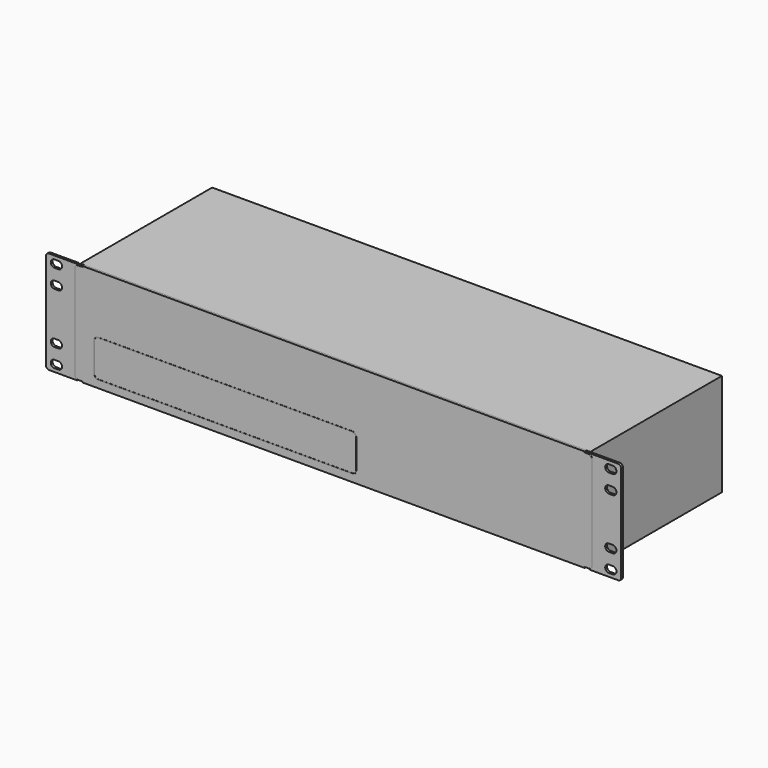
from build123d import *

# Parameters (mm, degrees)
F0_W      = 1.778
F0_H      = 86.614
F1_DEPTH  = 2
F2_R      = 3
F0_H_2    = 0.762
F3_DEPTH  = 1.9
F4_R      = 2.5
F4_2_R    = 2.5
F6_DEPTH  = 1.901
F7_DEPTH  = 1.901
F8_W      = 438.15
F8_H      = 88.1
F9_DEPTH  = 141.443
F10_R     = 1.75
F11_DEPTH = 1
F12_R     = 4.064
F13_DEPTH = 1.2
F14_DEPTH = 4
F15_SIZE  = 0.2
F16_R     = 4.826
F16_R_2   = 4.576
F16_R_3   = 1.651
F17_DEPTH = 10
F19_DEPTH = 15
F18_W     = 15.494
F18_H     = 13.414
F20_DEPTH = 0.2
F21_R     = 1.25
F22_DEPTH = 4.6
F24_DEPTH = 0.1


with BuildPart() as f1:
    # F0 (on Front) → F1 (new body)
    with BuildSketch(Plane.XZ):
        Polygon((-215.9, -44.069), (215.9, -44.069), (215.9, -43.307), (220.472, -43.307), (220.472, 43.307), (215.9, 43.307), (215.9, 44.069), (-215.9, 44.069), (-215.9, 43.307), (-220.472, 43.307), (-220.472, -43.307), (-215.9, -43.307), align=None)
        with Locations((-221.361, 0)):
            Rectangle(F0_W, F0_H)
        with Locations((221.361, 0)):
            Rectangle(F0_W, F0_H)
    extrude(amount=F1_DEPTH)

    # F2
    f2_edges = [f1.edges().sort_by_distance(p)[0] for p in [
        (-222.25, -1, 43.307),
        (-222.25, -1, -43.307),
        (222.25, -1, -43.307),
        (222.25, -1, 43.307),
    ]]
    fillet(f2_edges, radius=F2_R)

    # F5 (on face) → F7 (cut, through all)
    with BuildSketch(Plane.XZ.offset(1.9)):
        Polygon((236.602, -21.973), (236.602, -25.148), (239.902, -25.148), (239.902, -21.973), (239.902, -18.798), (236.602, -18.798), align=None)
        with BuildLine():
            ThreePointArc((236.602, -18.798), (234.3562895414, -19.7275823885), (233.426, -21.973))
            Line((233.426, -21.973), (236.602, -21.973))
            Line((236.602, -21.973), (236.602, -18.798))
        make_face()
        with BuildLine():
            ThreePointArc((233.426, -21.973), (234.3562895414, -24.2184176115), (236.602, -25.148))
            Line((236.602, -25.148), (236.602, -21.973))
            Line((236.602, -21.973), (233.426, -21.973))
        make_face()
        with BuildLine():
            Line((239.902, -21.973), (239.902, -25.148))
            ThreePointArc((239.902, -25.148), (242.1477104586, -24.2184176115), (243.078, -21.973))
            Line((243.078, -21.973), (239.902, -21.973))
        make_face()
        with BuildLine():
            Line((239.902, -18.798), (239.902, -21.973))
            Line((239.902, -21.973), (243.078, -21.973))
            ThreePointArc((243.078, -21.973), (242.1477104586, -19.7275823885), (239.902, -18.798))
        make_face()
        with BuildLine():
            Line((233.426, -37.973), (236.602, -37.973))
            Line((236.602, -37.973), (236.602, -34.798))
            ThreePointArc((236.602, -34.798), (234.3562895414, -35.7275823885), (233.426, -37.973))
        make_face()
        with BuildLine():
            ThreePointArc((233.426, -37.973), (234.3562895414, -40.2184176115), (236.602, -41.148))
            Line((236.602, -41.148), (236.602, -37.973))
            Line((236.602, -37.973), (233.426, -37.973))
        make_face()
        Polygon((236.602, -37.973), (236.602, -41.148), (239.902, -41.148), (239.902, -37.973), (239.902, -34.798), (236.602, -34.798), align=None)
        with BuildLine():
            Line((239.902, -34.798), (239.902, -37.973))
            Line((239.902, -37.973), (243.078, -37.973))
            ThreePointArc((243.078, -37.973), (242.1477104586, -35.7275823885), (239.902, -34.798))
        make_face()
        with BuildLine():
            Line((239.902, -37.973), (239.902, -41.148))
            ThreePointArc((239.902, -41.148), (242.1477104586, -40.2184176115), (243.078, -37.973))
            Line((243.078, -37.973), (239.902, -37.973))
        make_face()
        with BuildLine():
            ThreePointArc((236.602, 25.148), (234.3562895414, 24.2184176115), (233.426, 21.973))
            Line((233.426, 21.973), (236.602, 21.973))
            Line((236.602, 21.973), (236.602, 25.148))
        make_face()
        with BuildLine():
            ThreePointArc((233.426, 21.973), (234.3562895414, 19.7275823885), (236.602, 18.798))
            Line((236.602, 18.798), (236.602, 21.973))
            Line((236.602, 21.973), (233.426, 21.973))
        make_face()
        Polygon((236.602, 21.973), (236.602, 18.798), (239.902, 18.798), (239.902, 21.973), (239.902, 25.148), (236.602, 25.148), align=None)
        with BuildLine():
            Line((239.902, 21.973), (243.078, 21.973))
            ThreePointArc((243.078, 21.973), (242.1477104586, 24.2184176115), (239.902, 25.148))
            Line((239.902, 25.148), (239.902, 21.973))
        make_face()
        with BuildLine():
            Line((239.902, 21.973), (239.902, 18.798))
            ThreePointArc((239.902, 18.798), (242.1477104586, 19.7275823885), (243.078, 21.973))
            Line((243.078, 21.973), (239.902, 21.973))
        make_face()
        with BuildLine():
            Line((239.902, 37.973), (243.078, 37.973))
            ThreePointArc((243.078, 37.973), (242.1477104586, 40.2184176115), (239.902, 41.148))
            Line((239.902, 41.148), (239.902, 37.973))
        make_face()
        with BuildLine():
            Line((239.902, 37.973), (239.902, 34.798))
            ThreePointArc((239.902, 34.798), (242.1477104586, 35.7275823885), (243.078, 37.973))
            Line((243.078, 37.973), (239.902, 37.973))
        make_face()
        Polygon((236.602, 37.973), (236.602, 34.798), (239.902, 34.798), (239.902, 37.973), (239.902, 41.148), (236.602, 41.148), align=None)
        with BuildLine():
            Line((233.426, 37.973), (236.602, 37.973))
            Line((236.602, 37.973), (236.602, 41.148))
            ThreePointArc((236.602, 41.148), (234.3562895414, 40.2184176115), (233.426, 37.973))
        make_face()
        with BuildLine():
            ThreePointArc((233.426, 37.973), (234.3562895414, 35.7275823885), (236.602, 34.798))
            Line((236.602, 34.798), (236.602, 37.973))
            Line((236.602, 37.973), (233.426, 37.973))
        make_face()
    extrude(amount=-F7_DEPTH, mode=Mode.SUBTRACT)


with BuildPart() as f3:
    # F0 (on Front) → F3 (new body)
    with BuildSketch(Plane.XZ):
        Polygon((-247.142, -44.069), (-222.25, -44.069), (-222.25, -43.307), (-222.25, 43.307), (-222.25, 44.069), (-247.142, 44.069), align=None)
        with Locations((-221.361, 43.688)):
            Rectangle(F0_W, F0_H_2)
        with Locations((-221.361, 0)):
            Rectangle(F0_W, F0_H)
        with Locations((-221.361, -43.688)):
            Rectangle(F0_W, F0_H_2)
    extrude(amount=F3_DEPTH)

    # F4
    f4_edges = [f3.edges().sort_by_distance(p)[0] for p in [
        (-247.142, -0.95, 44.069),
        (-247.142, -0.95, -44.069),
    ]]
    fillet(f4_edges, radius=F4_R)


with BuildPart() as f3b:
    # F0 (on Front) → F3, piece 2 (new body)
    with BuildSketch(Plane.XZ):
        Polygon((222.25, -43.307), (222.25, -44.069), (247.142, -44.069), (247.142, 44.069), (222.25, 44.069), (222.25, 43.307), align=None)
        with Locations((221.361, 43.688)):
            Rectangle(F0_W, F0_H_2)
        with Locations((221.361, 0)):
            Rectangle(F0_W, F0_H)
        with Locations((221.361, -43.688)):
            Rectangle(F0_W, F0_H_2)
    extrude(amount=F3_DEPTH)

    # F4#2
    f4_2_edges = [f3b.edges().sort_by_distance(p)[0] for p in [
        (247.142, -0.95, -44.069),
        (247.142, -0.95, 44.069),
    ]]
    fillet(f4_2_edges, radius=F4_2_R)


with BuildPart() as f6_tool:
    # F5 (on face) → F6 (new body, through all)
    with BuildSketch(Plane.XZ.offset(1.9)):
        with BuildLine():
            Line((-239.902, 37.973), (-239.902, 41.148))
            ThreePointArc((-239.902, 41.148), (-242.1477104586, 40.2184176115), (-243.078, 37.973))
            Line((-243.078, 37.973), (-239.902, 37.973))
        make_face()
        with BuildLine():
            ThreePointArc((-243.078, 37.973), (-242.1477104586, 35.7275823885), (-239.902, 34.798))
            Line((-239.902, 34.798), (-239.902, 37.973))
            Line((-239.902, 37.973), (-243.078, 37.973))
        make_face()
        Polygon((-236.602, 34.798), (-236.602, 37.973), (-236.602, 41.148), (-239.902, 41.148), (-239.902, 37.973), (-239.902, 34.798), align=None)
        with BuildLine():
            Line((-233.426, 37.973), (-236.602, 37.973))
            Line((-236.602, 37.973), (-236.602, 34.798))
            ThreePointArc((-236.602, 34.798), (-234.3562895414, 35.7275823885), (-233.426, 37.973))
        make_face()
        with BuildLine():
            Line((-236.602, 41.148), (-236.602, 37.973))
            Line((-236.602, 37.973), (-233.426, 37.973))
            ThreePointArc((-233.426, 37.973), (-234.3562895414, 40.2184176115), (-236.602, 41.148))
        make_face()
        with BuildLine():
            Line((-239.902, 21.973), (-239.902, 25.148))
            ThreePointArc((-239.902, 25.148), (-242.1477104586, 24.2184176115), (-243.078, 21.973))
            Line((-243.078, 21.973), (-239.902, 21.973))
        make_face()
        with BuildLine():
            ThreePointArc((-243.078, 21.973), (-242.1477104586, 19.7275823885), (-239.902, 18.798))
            Line((-239.902, 18.798), (-239.902, 21.973))
            Line((-239.902, 21.973), (-243.078, 21.973))
        make_face()
        Polygon((-236.602, 18.798), (-236.602, 21.973), (-236.602, 25.148), (-239.902, 25.148), (-239.902, 21.973), (-239.902, 18.798), align=None)
        with BuildLine():
            Line((-233.426, 21.973), (-236.602, 21.973))
            Line((-236.602, 21.973), (-236.602, 18.798))
            ThreePointArc((-236.602, 18.798), (-234.3562895414, 19.7275823885), (-233.426, 21.973))
        make_face()
        with BuildLine():
            Line((-236.602, 25.148), (-236.602, 21.973))
            Line((-236.602, 21.973), (-233.426, 21.973))
            ThreePointArc((-233.426, 21.973), (-234.3562895414, 24.2184176115), (-236.602, 25.148))
        make_face()
        with BuildLine():
            Line((-243.078, -37.973), (-239.902, -37.973))
            Line((-239.902, -37.973), (-239.902, -34.798))
            ThreePointArc((-239.902, -34.798), (-242.1477104586, -35.7275823885), (-243.078, -37.973))
        make_face()
        with BuildLine():
            ThreePointArc((-243.078, -37.973), (-242.1477104586, -40.2184176115), (-239.902, -41.148))
            Line((-239.902, -41.148), (-239.902, -37.973))
            Line((-239.902, -37.973), (-243.078, -37.973))
        make_face()
        Polygon((-239.902, -37.973), (-239.902, -41.148), (-236.602, -41.148), (-236.602, -37.973), (-236.602, -34.798), (-239.902, -34.798), align=None)
        with BuildLine():
            Line((-236.602, -37.973), (-236.602, -41.148))
            ThreePointArc((-236.602, -41.148), (-234.3562895414, -40.2184176115), (-233.426, -37.973))
            Line((-233.426, -37.973), (-236.602, -37.973))
        make_face()
        with BuildLine():
            Line((-236.602, -34.798), (-236.602, -37.973))
            Line((-236.602, -37.973), (-233.426, -37.973))
            ThreePointArc((-233.426, -37.973), (-234.3562895414, -35.7275823885), (-236.602, -34.798))
        make_face()
        with BuildLine():
            ThreePointArc((-233.426, -21.973), (-234.3562895414, -19.7275823885), (-236.602, -18.798))
            Line((-236.602, -18.798), (-236.602, -21.973))
            Line((-236.602, -21.973), (-233.426, -21.973))
        make_face()
        with BuildLine():
            ThreePointArc((-236.602, -25.148), (-234.3562895414, -24.2184176115), (-233.426, -21.973))
            Line((-233.426, -21.973), (-236.602, -21.973))
            Line((-236.602, -21.973), (-236.602, -25.148))
        make_face()
        Polygon((-236.602, -18.798), (-239.902, -18.798), (-239.902, -21.973), (-239.902, -25.148), (-236.602, -25.148), (-236.602, -21.973), align=None)
        with BuildLine():
            Line((-239.902, -25.148), (-239.902, -21.973))
            Line((-239.902, -21.973), (-243.078, -21.973))
            ThreePointArc((-243.078, -21.973), (-242.1477104586, -24.2184176115), (-239.902, -25.148))
        make_face()
        with BuildLine():
            Line((-239.902, -21.973), (-239.902, -18.798))
            ThreePointArc((-239.902, -18.798), (-242.1477104586, -19.7275823885), (-243.078, -21.973))
            Line((-243.078, -21.973), (-239.902, -21.973))
        make_face()
        with BuildLine():
            Line((233.426, 37.973), (236.602, 37.973))
            Line((236.602, 37.973), (236.602, 41.148))
            ThreePointArc((236.602, 41.148), (234.3562895414, 40.2184176115), (233.426, 37.973))
        make_face()
        with BuildLine():
            ThreePointArc((233.426, 37.973), (234.3562895414, 35.7275823885), (236.602, 34.798))
            Line((236.602, 34.798), (236.602, 37.973))
            Line((236.602, 37.973), (233.426, 37.973))
        make_face()
        Polygon((236.602, 37.973), (236.602, 34.798), (239.902, 34.798), (239.902, 37.973), (239.902, 41.148), (236.602, 41.148), align=None)
        with BuildLine():
            Line((239.902, 37.973), (243.078, 37.973))
            ThreePointArc((243.078, 37.973), (242.1477104586, 40.2184176115), (239.902, 41.148))
            Line((239.902, 41.148), (239.902, 37.973))
        make_face()
        with BuildLine():
            Line((239.902, 37.973), (239.902, 34.798))
            ThreePointArc((239.902, 34.798), (242.1477104586, 35.7275823885), (243.078, 37.973))
            Line((243.078, 37.973), (239.902, 37.973))
        make_face()
        with BuildLine():
            ThreePointArc((236.602, 25.148), (234.3562895414, 24.2184176115), (233.426, 21.973))
            Line((233.426, 21.973), (236.602, 21.973))
            Line((236.602, 21.973), (236.602, 25.148))
        make_face()
        with BuildLine():
            ThreePointArc((233.426, 21.973), (234.3562895414, 19.7275823885), (236.602, 18.798))
            Line((236.602, 18.798), (236.602, 21.973))
            Line((236.602, 21.973), (233.426, 21.973))
        make_face()
        Polygon((236.602, 21.973), (236.602, 18.798), (239.902, 18.798), (239.902, 21.973), (239.902, 25.148), (236.602, 25.148), align=None)
        with BuildLine():
            Line((239.902, 21.973), (243.078, 21.973))
            ThreePointArc((243.078, 21.973), (242.1477104586, 24.2184176115), (239.902, 25.148))
            Line((239.902, 25.148), (239.902, 21.973))
        make_face()
        with BuildLine():
            Line((239.902, 21.973), (239.902, 18.798))
            ThreePointArc((239.902, 18.798), (242.1477104586, 19.7275823885), (243.078, 21.973))
            Line((243.078, 21.973), (239.902, 21.973))
        make_face()
        with BuildLine():
            ThreePointArc((236.602, -18.798), (234.3562895414, -19.7275823885), (233.426, -21.973))
            Line((233.426, -21.973), (236.602, -21.973))
            Line((236.602, -21.973), (236.602, -18.798))
        make_face()
        with BuildLine():
            ThreePointArc((233.426, -21.973), (234.3562895414, -24.2184176115), (236.602, -25.148))
            Line((236.602, -25.148), (236.602, -21.973))
            Line((236.602, -21.973), (233.426, -21.973))
        make_face()
        Polygon((236.602, -21.973), (236.602, -25.148), (239.902, -25.148), (239.902, -21.973), (239.902, -18.798), (236.602, -18.798), align=None)
        with BuildLine():
            Line((239.902, -18.798), (239.902, -21.973))
            Line((239.902, -21.973), (243.078, -21.973))
            ThreePointArc((243.078, -21.973), (242.1477104586, -19.7275823885), (239.902, -18.798))
        make_face()
        with BuildLine():
            Line((239.902, -21.973), (239.902, -25.148))
            ThreePointArc((239.902, -25.148), (242.1477104586, -24.2184176115), (243.078, -21.973))
            Line((243.078, -21.973), (239.902, -21.973))
        make_face()
        with BuildLine():
            Line((233.426, -37.973), (236.602, -37.973))
            Line((236.602, -37.973), (236.602, -34.798))
            ThreePointArc((236.602, -34.798), (234.3562895414, -35.7275823885), (233.426, -37.973))
        make_face()
        with BuildLine():
            ThreePointArc((233.426, -37.973), (234.3562895414, -40.2184176115), (236.602, -41.148))
            Line((236.602, -41.148), (236.602, -37.973))
            Line((236.602, -37.973), (233.426, -37.973))
        make_face()
        Polygon((236.602, -37.973), (236.602, -41.148), (239.902, -41.148), (239.902, -37.973), (239.902, -34.798), (236.602, -34.798), align=None)
        with BuildLine():
            Line((239.902, -34.798), (239.902, -37.973))
            Line((239.902, -37.973), (243.078, -37.973))
            ThreePointArc((243.078, -37.973), (242.1477104586, -35.7275823885), (239.902, -34.798))
        make_face()
        with BuildLine():
            Line((239.902, -37.973), (239.902, -41.148))
            ThreePointArc((239.902, -41.148), (242.1477104586, -40.2184176115), (243.078, -37.973))
            Line((243.078, -37.973), (239.902, -37.973))
        make_face()
    extrude(amount=-F6_DEPTH)


with BuildPart() as f3_1:
    add(f3.part)

    # F6: cut by f6_tool
    add(f6_tool.part, mode=Mode.SUBTRACT)


with BuildPart() as f3b_1:
    add(f3b.part)

    # F6: cut by f6_tool
    add(f6_tool.part, mode=Mode.SUBTRACT)


with BuildPart() as f9:
    # F8 (on Front) → F9 (new body)
    with BuildSketch(Plane.XZ):
        Rectangle(F8_W, F8_H)
    extrude(amount=-F9_DEPTH)

    # F10 (on face) → F11 (cut)
    with BuildSketch(Plane(origin=(0, 141.443, 0), x_dir=(-1, 0, 0), z_dir=(0, 1, 0))):
        with Locations((-207.3907, 20.936)):
            Circle(F10_R)
        with Locations((-141.3507, 20.936)):
            Circle(F10_R)
        with Locations((-69.7227, 20.936)):
            Circle(F10_R)
        with Locations((-135.7627, 20.936)):
            Circle(F10_R)
        with Locations((1.9053, 20.936)):
            Circle(F10_R)
        with Locations((-64.1347, 20.936)):
            Circle(F10_R)
        with Locations((7.4933, 20.936)):
            Circle(F10_R)
        with Locations((53.2133, 20.936)):
            Circle(F10_R)
        with Locations((104.5213, 20.936)):
            Circle(F10_R)
        with Locations((58.8013, 20.936)):
            Circle(F10_R)
        with Locations((155.8293, 20.936)):
            Circle(F10_R)
        with Locations((110.1093, 20.936)):
            Circle(F10_R)
        with Locations((207.1373, 20.936)):
            Circle(F10_R)
        with Locations((161.4173, 20.936)):
            Circle(F10_R)
        with Locations((-202.819, -26.035)):
            Circle(F10_R)
        with Locations((-157.099, -26.035)):
            Circle(F10_R)
        with Locations((-151.511, -26.035)):
            Circle(F10_R)
        with Locations((-105.791, -26.035)):
            Circle(F10_R)
        with Locations((-100.203, -26.035)):
            Circle(F10_R)
        with Locations((-54.483, -26.035)):
            Circle(F10_R)
        with Locations((-48.895, -26.035)):
            Circle(F10_R)
        with Locations((-3.175, -26.035)):
            Circle(F10_R)
        with Locations((209.423, -26.035)):
            Circle(F10_R)
        with Locations((163.703, -26.035)):
            Circle(F10_R)
    extrude(amount=-F11_DEPTH, mode=Mode.SUBTRACT)

    # F12 (on face) → F13 (join)
    with BuildSketch(Plane(origin=(0, 141.443, 0), x_dir=(-1, 0, 0), z_dir=(0, 1, 0))):
        with Locations((210.947, -5.95)):
            Circle(F12_R)
        Polygon((213.4529036788, -3.6477865095), (214.1937272071, -6.9690695), (211.6878235283, -9.2712829905), (208.4410963212, -8.2522134905), (207.7002727929, -4.9309305), (210.2061764717, -2.6287170095), align=None, mode=Mode.SUBTRACT)
    extrude(amount=F13_DEPTH)

    # F12 (on face) → F14 (join)
    with BuildSketch(Plane(origin=(0, 141.443, 0), x_dir=(-1, 0, 0), z_dir=(0, 1, 0))):
        Polygon((211.6878235283, -9.2712829905), (214.1937272071, -6.9690695), (213.4529036788, -3.6477865095), (210.2061764717, -2.6287170095), (207.7002727929, -4.9309305), (208.4410963212, -8.2522134905), align=None)
    extrude(amount=F14_DEPTH)

    # F15
    f15_edges = [f9.edges().sort_by_distance(p)[0] for p in [
        (-210.06446, 145.443, -8.761748),
        (-212.940775, 145.443, -8.120176),
        (-213.823315, 145.443, -5.308428),
        (-211.82954, 145.443, -3.138252),
        (-208.953225, 145.443, -3.779824),
        (-208.070685, 145.443, -6.591572),
        (-206.883, 142.643, -5.95),
        (-213.823315, 142.643, -5.308428),
        (-212.940775, 142.643, -8.120176),
        (-210.06446, 142.643, -8.761748),
        (-208.070685, 142.643, -6.591572),
        (-208.953225, 142.643, -3.779824),
        (-211.82954, 142.643, -3.138252),
    ]]
    chamfer(f15_edges, length=F15_SIZE)

    # F16 (on face) → F17 (join)
    with BuildSketch(Plane(origin=(0, 141.443, 0), x_dir=(-1, 0, 0), z_dir=(0, 1, 0))):
        with Locations((146.177, -6.712)):
            Circle(F16_R)
        with Locations((146.177, -6.712)):
            Circle(F16_R_2, mode=Mode.SUBTRACT)
        with Locations((146.177, -22.968)):
            Circle(F16_R)
        with Locations((146.177, -22.968)):
            Circle(F16_R_2, mode=Mode.SUBTRACT)
        with Locations((146.177, -6.712)):
            Circle(F16_R_3)
        with Locations((146.177, -22.968)):
            Circle(F16_R_3)
    extrude(amount=F17_DEPTH)

    # F18 (on face) → F19 (cut)
    with BuildSketch(Plane(origin=(0, 141.443, 0), x_dir=(-1, 0, 0), z_dir=(0, 1, 0))):
        Polygon((9.243, -19.206), (9.243, -26.826), (22.197, -26.826), (22.197, -19.206), (19.657, -19.206), (19.657, -17.936), (17.625, -17.936), (17.625, -17.174), (13.815, -17.174), (13.815, -17.936), (11.783, -17.936), (11.783, -19.206), align=None)
        Polygon((34.643, -26.826), (47.597, -26.826), (47.597, -19.206), (45.057, -19.206), (45.057, -17.936), (43.025, -17.936), (43.025, -17.174), (39.215, -17.174), (39.215, -17.936), (37.183, -17.936), (37.183, -19.206), (34.643, -19.206), align=None)
    extrude(amount=-F19_DEPTH, mode=Mode.SUBTRACT)

    # F18 (on face) → F20 (join)
    with BuildSketch(Plane(origin=(0, 141.443, 0), x_dir=(-1, 0, 0), z_dir=(0, 1, 0))):
        with Locations((15.72, -23.119)):
            Rectangle(F18_W, F18_H)
        Polygon((22.197, -26.826), (9.243, -26.826), (9.243, -19.206), (11.783, -19.206), (11.783, -17.936), (13.815, -17.936), (13.815, -17.174), (17.625, -17.174), (17.625, -17.936), (19.657, -17.936), (19.657, -19.206), (22.197, -19.206), align=None, mode=Mode.SUBTRACT)
        with Locations((41.12, -23.119)):
            Rectangle(F18_W, F18_H)
        Polygon((47.597, -19.206), (47.597, -26.826), (34.643, -26.826), (34.643, -19.206), (37.183, -19.206), (37.183, -17.936), (39.215, -17.936), (39.215, -17.174), (43.025, -17.174), (43.025, -17.936), (45.057, -17.936), (45.057, -19.206), align=None, mode=Mode.SUBTRACT)
    extrude(amount=F20_DEPTH)

    # F21 (on face) → F22 (join)
    with BuildSketch(Plane(origin=(0, 141.443, 0), x_dir=(-1, 0, 0), z_dir=(0, 1, 0))):
        Polygon((67.0945349008, -25.8881801447), (69.6852927041, -25.0811440008), (70.2817578034, -22.433963856), (68.2874650992, -20.5938198553), (65.6967072959, -21.4008559992), (65.1002421966, -24.048036144), align=None)
        with Locations((67.691, -23.241)):
            Circle(F21_R, mode=Mode.SUBTRACT)
        Polygon((92.6185680376, -25.913104297), (95.1688942216, -24.9861902295), (95.641326184, -22.3140859325), (93.5634319624, -20.568895703), (91.0131057784, -21.4958097705), (90.540673816, -24.1679140675), align=None)
        with Locations((93.091, -23.241)):
            Circle(F21_R, mode=Mode.SUBTRACT)
        Polygon((102.5774650992, -20.5938198553), (99.9867072959, -21.4008559992), (99.3902421966, -24.048036144), (101.3845349008, -25.8881801447), (103.9752927041, -25.0811440008), (104.5717578034, -22.433963856), align=None)
        with Locations((101.981, -23.241)):
            Circle(F21_R, mode=Mode.SUBTRACT)
        Polygon((129.4588942216, -24.9861902295), (129.931326184, -22.3140859325), (127.8534319624, -20.568895703), (125.3031057784, -21.4958097705), (124.830673816, -24.1679140675), (126.9085680376, -25.913104297), align=None)
        with Locations((127.381, -23.241)):
            Circle(F21_R, mode=Mode.SUBTRACT)
    extrude(amount=F22_DEPTH)


with BuildPart() as f24:
    # F23 (on face) → F24 (new body)
    with BuildSketch(Plane.XZ.offset(2)):
        with BuildLine():
            Line((16.058, -5.461), (-202.494, -5.461))
            ThreePointArc((-202.494, -5.461), (-204.9688737342, -6.4861262658), (-205.994, -8.961))
            Line((-205.994, -8.961), (-205.994, -34.219))
            ThreePointArc((-205.994, -34.219), (-204.9688737342, -36.6938737342), (-202.494, -37.719))
            Line((-202.494, -37.719), (16.058, -37.719))
            ThreePointArc((16.058, -37.719), (18.5328737342, -36.6938737342), (19.558, -34.219))
            Line((19.558, -34.219), (19.558, -8.961))
            ThreePointArc((19.558, -8.961), (18.5328737342, -6.4861262658), (16.058, -5.461))
        make_face()
        with BuildLine():
            ThreePointArc((-205.494, -8.961), (-204.6153203436, -6.8396796564), (-202.494, -5.961))
            Line((-202.494, -5.961), (16.058, -5.961))
            ThreePointArc((16.058, -5.961), (18.1793203436, -6.8396796564), (19.058, -8.961))
            Line((19.058, -8.961), (19.058, -34.219))
            ThreePointArc((19.058, -34.219), (18.1793203436, -36.3403203436), (16.058, -37.219))
            Line((16.058, -37.219), (-202.494, -37.219))
            ThreePointArc((-202.494, -37.219), (-204.6153203436, -36.3403203436), (-205.494, -34.219))
            Line((-205.494, -34.219), (-205.494, -8.961))
        make_face(mode=Mode.SUBTRACT)
    extrude(amount=F24_DEPTH)


solid = Compound([f1.part, f3_1.part, f3b_1.part, f9.part, f24.part])
